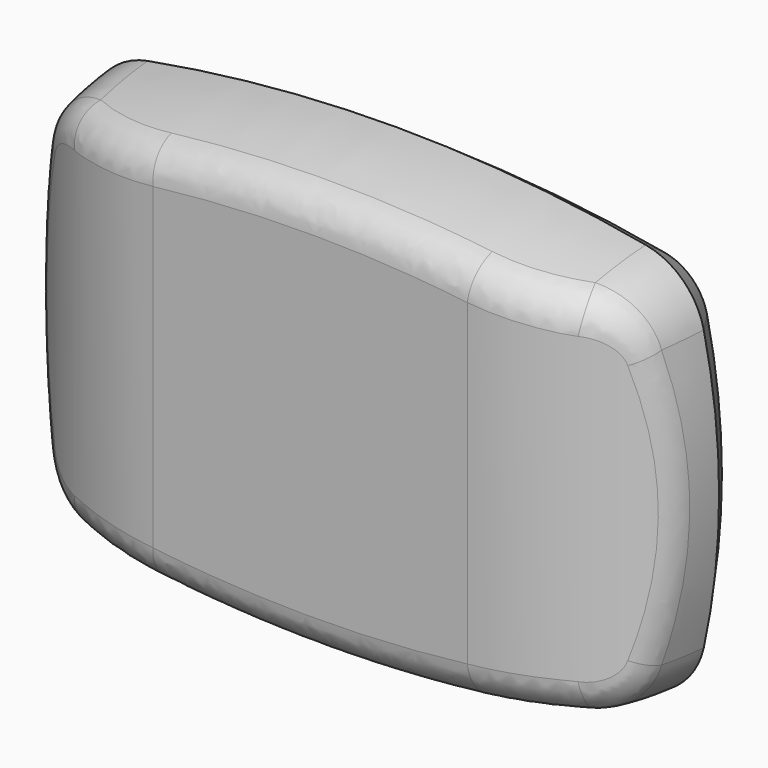
from build123d import *

# Parameters (mm, degrees)
PAD016_DEPTH = 50
FILLET_R     = 8


with BuildPart() as part:
    # Sketch028 → Pad016 (new body, symmetric)
    with BuildSketch(Plane.XY):
        with BuildLine():
            Line((-34, -29.5), (34, -29.5))
            ThreePointArc((34, -29.5), (54.155644, -25.328678), (71, -13.5))
            Line((71, 0), (71, -13.5))
            Line((-71, 0), (71, 0))
            Line((-71, -13.5), (-71, 0))
            ThreePointArc((-71, -13.5), (-54.155644, -25.328678), (-34, -29.5))
        make_face()
    extrude(amount=PAD016_DEPTH, both=True)

    # SubtractivePipe: sweep along a path in Sketch027
    with BuildLine(Plane.XZ) as subtractivepipe_path:
        ThreePointArc((53.929146, 42.61294), (0, 47.5), (-53.929146, 42.61294))
        ThreePointArc((-53.929146, 42.61294), (-62.151317, 38.398585), (-66.672657, 30.341142))
        ThreePointArc((-66.672657, 30.341142), (-70, 0), (-66.672657, -30.341142))
        ThreePointArc((-66.672657, -30.341142), (-62.151317, -38.398585), (-53.929146, -42.61294))
        ThreePointArc((-53.929146, -42.61294), (0, -47.5), (53.929146, -42.61294))
        ThreePointArc((53.929146, -42.61294), (62.151317, -38.398585), (66.672657, -30.341142))
        ThreePointArc((66.672657, -30.341142), (70, 0), (66.672657, 30.341142))
        ThreePointArc((66.672657, 30.341142), (62.151317, 38.398585), (53.929146, 42.61294))
    # Sketch029 → SubtractivePipe (sweep, cut)
    with BuildSketch(Plane.YZ):
        with BuildLine():
            Line((0, 70), (-30, 70))
            Line((-30, 70), (-30, 42.029869))
            ThreePointArc((-6.112392, 47.279943), (-18.246014, 45.51857), (-30, 42.029869))
            Line((-6.112392, 47.279943), (0, 43))
            Line((0, 43), (0, 70))
        make_face()
    sweep(path=subtractivepipe_path.line, mode=Mode.SUBTRACT)

    # Fillet
    fillet_edges = [part.edges().sort_by_distance(p)[0] for p in [
        (43.776334, -28.550052, 39.296347),
    ]]
    fillet(fillet_edges, radius=FILLET_R)


solid = part.part
